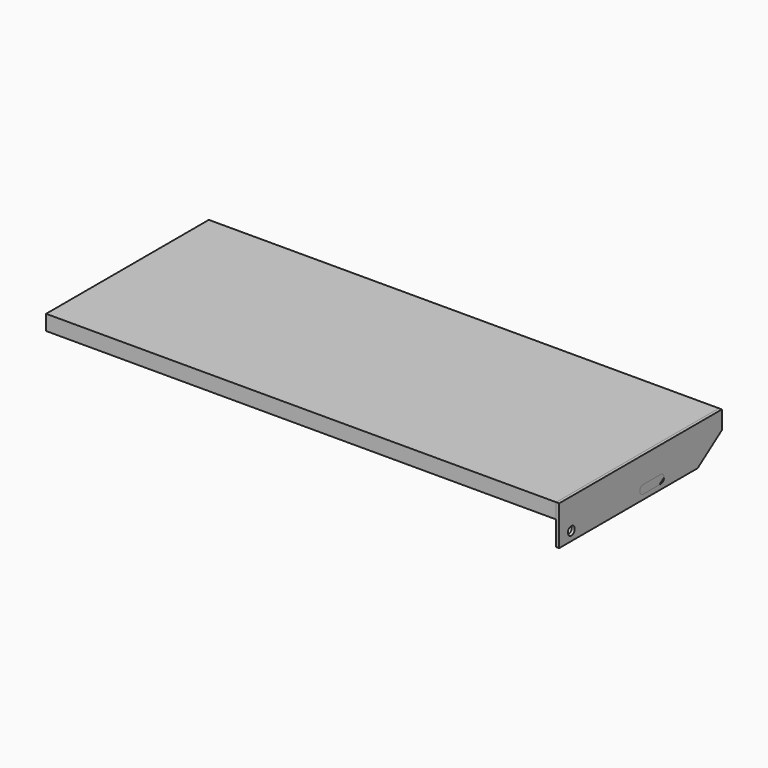
from build123d import *

# Parameters (mm, degrees)
F0_W           = 840
F0_H           = 245
F1_DEPTH       = 25
F2_W           = 245
F2_H           = 65
F3_DEPTH       = 5
F4_SIZE2       = 35.0103769105
F4_SIZE        = 50
F5_R           = 7
F6_DEPTH       = 25
F16_W          = 335
F16_H          = 25
F17_DEPTH      = 420
F17_DEPTH_BACK = 420
F18_W          = 335
F18_H          = 65
F19_DEPTH      = 5
F20_SIZE2      = 35.0103769105
F20_SIZE       = 50
F21_R          = 7
F22_DEPTH      = 5


with BuildPart() as f1:
    # F0 (on Top) → F1 (new body)
    with BuildSketch(Plane.XY):
        with Locations((0, 122.5)):
            Rectangle(F0_W, F0_H)
    extrude(amount=-F1_DEPTH)


with BuildPart() as f3:
    # F2 (on face) → F3 (new body)
    with BuildSketch(Plane.YZ.offset(420)):
        with Locations((122.5, -32.5)):
            Rectangle(F2_W, F2_H)
    extrude(amount=F3_DEPTH)

    # F4
    f4_edges = [f3.edges().sort_by_distance(p)[0] for p in [
        (422.5, 245, -65),
    ]]
    f4_side = f3.faces().sort_by_distance((422.5, 122.5, -65))[0]
    chamfer(f4_edges, length=F4_SIZE, length2=F4_SIZE2, reference=f4_side)

    # F5 (on face) → F6 (cut)
    with BuildSketch(Plane.YZ.offset(425)):
        with Locations((25, -50)):
            Circle(F5_R)
        with BuildLine():
            Line((155, -43), (119, -43))
            ThreePointArc((119, -43), (112, -50), (119, -57))
            Line((119, -57), (155, -57))
            ThreePointArc((155, -57), (162, -50), (155, -43))
        make_face()
    extrude(amount=-F6_DEPTH, mode=Mode.SUBTRACT)


with BuildPart() as f7_1:
    # F7: copy of F3
    add(f3.part.moved(Location((-845, 0, 0))))


with BuildPart() as f8_1:
    # F8: copy of F1
    add(f1.part)


with BuildPart() as f10_1:
    # F10: copy of F3
    add(f3.part.moved(Location((5, 0, 0))))


with BuildPart() as f11_1:
    # F11: copy of F8_1
    add(f8_1.part)


with BuildPart() as f13_1:
    # F13: copy of F3
    add(f3.part)


with BuildPart() as f17:
    # F16 (on Right) → F17 (new body, two sides)
    with BuildSketch(Plane.YZ) as f17_sk:
        with Locations((167.5, -12.5)):
            Rectangle(F16_W, F16_H)
    extrude(amount=F17_DEPTH)
    extrude(f17_sk.sketch, amount=-F17_DEPTH_BACK)


with BuildPart() as f19:
    # F18 (on face) → F19 (new body)
    with BuildSketch(Plane.YZ.offset(420)):
        with Locations((167.5, -32.5)):
            Rectangle(F18_W, F18_H)
    extrude(amount=F19_DEPTH)

    # F20
    f20_edges = [f19.edges().sort_by_distance(p)[0] for p in [
        (422.5, 335, -65),
    ]]
    f20_side = f19.faces().sort_by_distance((422.5, 167.5, -65))[0]
    chamfer(f20_edges, length=F20_SIZE, length2=F20_SIZE2, reference=f20_side)

    # F21 (on face) → F22 (cut, through all)
    with BuildSketch(Plane.YZ.offset(425)):
        with Locations((25, -50)):
            Circle(F21_R)
        with BuildLine():
            Line((209, -43), (173, -43))
            ThreePointArc((173, -43), (166, -50), (173, -57))
            Line((173, -57), (209, -57))
            ThreePointArc((209, -57), (216, -50), (209, -43))
        make_face()
    extrude(amount=-F22_DEPTH, mode=Mode.SUBTRACT)


solid = Compound([f11_1.part, f13_1.part, f17.part, f19.part])
